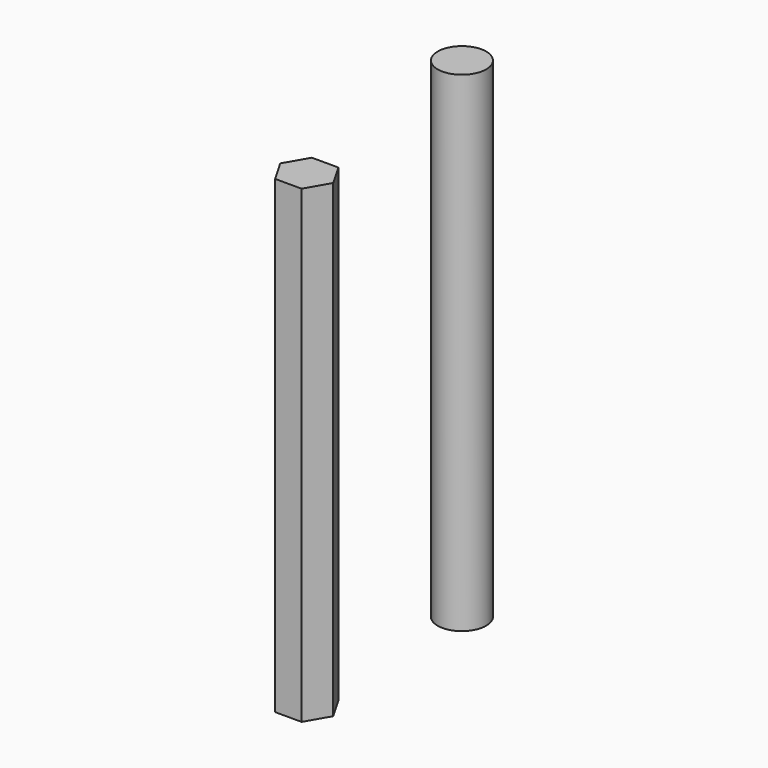
from build123d import *

# Parameters (mm, degrees)
F0_R     = 2.375
F1_DEPTH = 48
F3_DEPTH = 46


with BuildPart() as f1:
    # F0 (on Top) → F1 (new body)
    with BuildSketch(Plane.XY):
        Circle(F0_R)
    extrude(amount=F1_DEPTH)


with BuildPart() as f3:
    # F2 (on Top) → F3 (new body)
    with BuildSketch(Plane.XY):
        Polygon((-1.299038, -21.262335), (1.299038, -21.262335), (2.598076, -19.012335), (1.299038, -16.762335), (-1.299038, -16.762335), (-2.598076, -19.012335), align=None)
    extrude(amount=F3_DEPTH)


solid = Compound([f1.part, f3.part])
